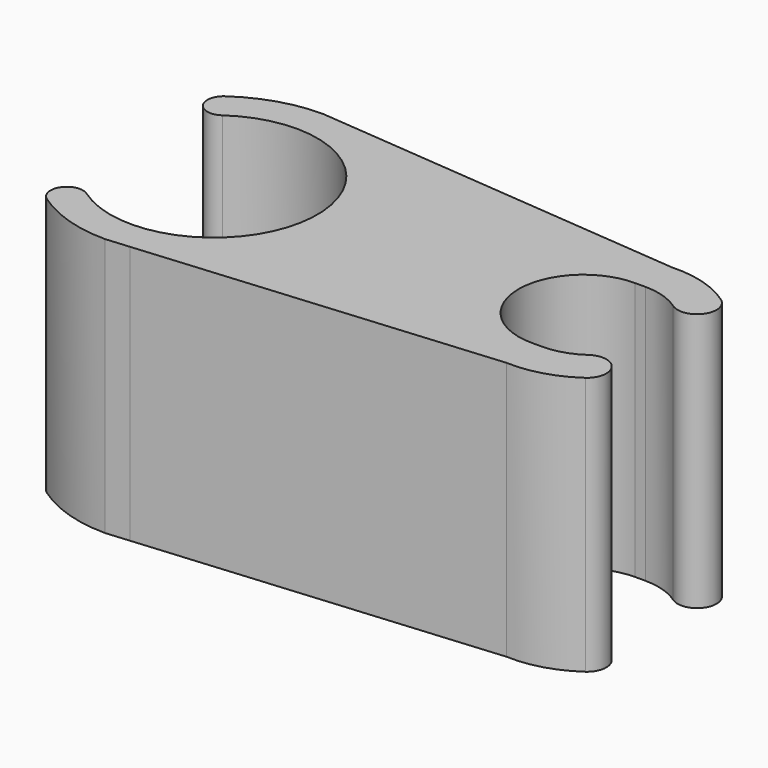
from build123d import *

# Parameters (mm, degrees)
F1_DEPTH = 10


with BuildPart() as f1:
    # F0 (on Top) → F1 (new body)
    with BuildSketch(Plane.XY):
        with BuildLine():
            ThreePointArc((-2.294306, 3.276608), (4, 0), (-2.294306, -3.276608))
            ThreePointArc((-2.294306, -3.276608), (-3.164761, -3.430093), (-3.011276, -4.300548))
            ThreePointArc((-3.011276, -4.300548), (-1.578705, -5.007014), (0, -5.25))
            Line((0, -5.25), (0.901305, -5.172055))
            Line((0.901305, -5.172055), (14.501144, -3.995933))
            ThreePointArc((14.501144, -3.995933), (15.797979, -3.841018), (16.975782, -3.276608))
            ThreePointArc((16.975782, -3.276608), (17.159964, -2.232062), (16.115418, -2.04788))
            ThreePointArc((16.115418, -2.04788), (15.433241, -2.384292), (14.681476, -2.5))
            Line((14.681476, -2.5), (14.281476, -2.5))
            ThreePointArc((14.281476, -2.5), (11.781476, 0), (14.281476, 2.5))
            Line((14.281476, 2.5), (14.681476, 2.5))
            ThreePointArc((14.681476, 2.5), (15.433241, 2.384292), (16.115418, 2.04788))
            ThreePointArc((16.115418, 2.04788), (17.159964, 2.232062), (16.975782, 3.276608))
            ThreePointArc((16.975782, 3.276608), (15.797979, 3.841018), (14.501144, 3.995933))
            Line((14.501144, 3.995933), (0.901305, 5.172055))
            Line((0.901305, 5.172055), (0, 5.25))
            ThreePointArc((0, 5.25), (-1.578705, 5.007014), (-3.011276, 4.300548))
            ThreePointArc((-3.011276, 4.300548), (-3.164761, 3.430093), (-2.294306, 3.276608))
        make_face()
    extrude(amount=F1_DEPTH)


solid = f1.part
